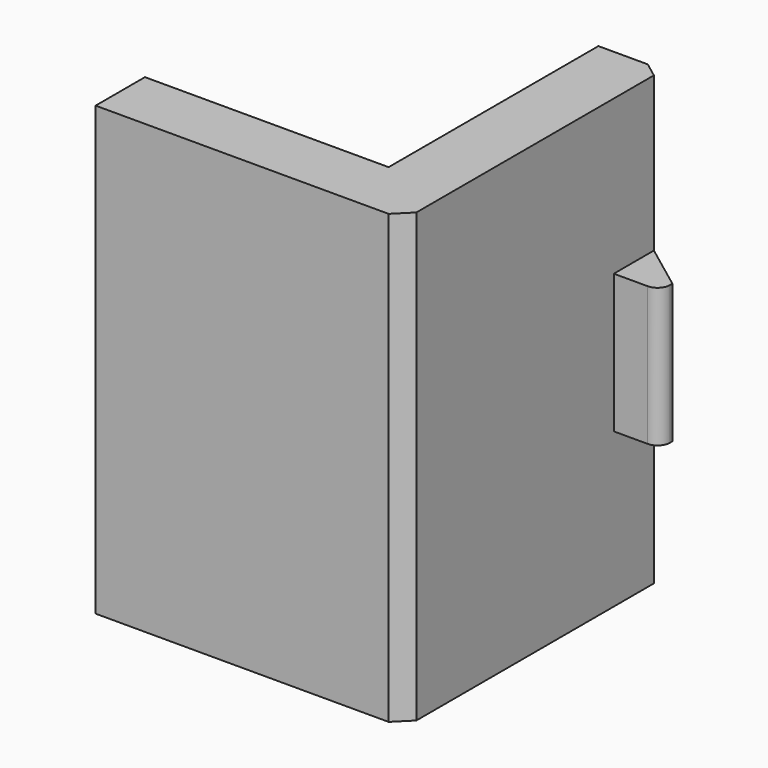
from build123d import *

# Parameters (mm, degrees)
F1_DEPTH = 14.5
F2_START = 5
F0_W     = 1.5
F0_H     = 2
F2_DEPTH = 4.5
F3_SIZE  = 0.5
F4_SIZE2 = 1.5
F4_SIZE  = 2
F5_R     = 0.4


with BuildPart() as f1:
    # F0 (on Top) → F1 (new body)
    with BuildSketch(Plane.XY):
        Polygon((0, 2), (0, 0), (10, 0), (10, 8.5), (10, 10.5), (7.9, 10.5), (7.9, 2), align=None)
    extrude(amount=F1_DEPTH)

    # F0 (on Top) → F2 (join)
    with BuildSketch(Plane.XY.offset(F2_START)):
        with Locations((10.75, 9.5)):
            Rectangle(F0_W, F0_H)
    extrude(amount=F2_DEPTH)

    # F3
    f3_edges = [f1.edges().sort_by_distance(p)[0] for p in [
        (10, 0, 7.25),
    ]]
    chamfer(f3_edges, length=F3_SIZE)

    # F4
    f4_edges = [f1.edges().sort_by_distance(p)[0] for p in [
        (11.5, 10.5, 7.25),
    ]]
    f4_side = f1.faces().sort_by_distance((9.276613, 10.5, 7.25))[0]
    chamfer(f4_edges, length=F4_SIZE, length2=F4_SIZE2, reference=f4_side)

    # F5
    f5_edges = [f1.edges().sort_by_distance(p)[0] for p in [
        (11.5, 8.5, 7.25),
    ]]
    fillet(f5_edges, radius=F5_R)


solid = f1.part
